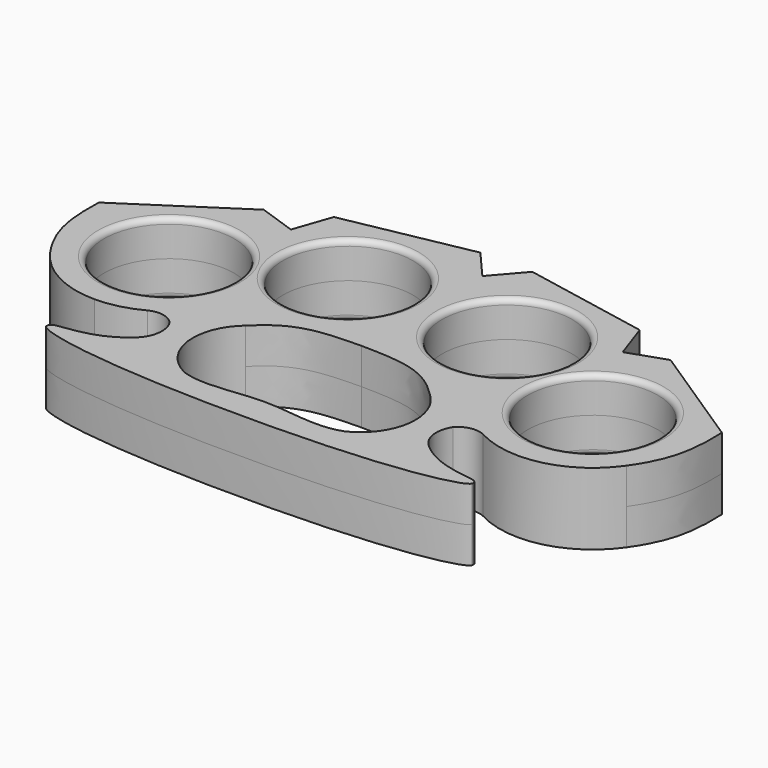
from build123d import *

# Parameters (mm, degrees)
F0_R     = 11.5
F1_DEPTH = 6.35
F2_R     = 3.1
F3_DEPTH = 2
F4_R     = 3.1
F5_DEPTH = 2
F6_R     = 3.1
F7_DEPTH = 2
F8_R     = 3.1
F9_DEPTH = 2
F10_R    = 1


with BuildPart() as f1:
    # F0 (on Top) → F1 (new body, symmetric)
    with BuildSketch(Plane.XY):
        with BuildLine():
            ThreePointArc((-24.9938476794, -12.252967933), (-24.2965271786, -15.8413624811), (-26.2120266154, -18.9548321248))
            add(Edge.make_bspline(
                [(-37.5956135349, -23.5576098881), (-37.8488649141, -21.7842883746), (-31.7119637516, -23.6130767682), (-26.2120266154, -18.9548321248)],
                knots=[0, 0, 0, 0, 12.2789093282, 12.2789093282, 12.2789093282, 12.2789093282], degree=3))
            add(Edge.make_bspline(
                [(-37.5956135349, -23.5576098881), (-37.5985242843, -23.5668355402), (-37.6013892033, -23.5749561954), (-37.604180558, -23.5821196974)],
                knots=[0, 0, 0, 0, 0.013607479, 0.013607479, 0.013607479, 0.013607479], degree=3))
            add(Edge.make_bspline(
                [(-37.604180558, -23.5821196974), (-37.6193024158, -23.6346104291), (-37.6149850147, -23.6902645556), (-37.5907335097, -23.7487180375)],
                knots=[2.3017468291, 2.3017468291, 2.3017468291, 2.3017468291, 3.8056657609, 3.8056657609, 3.8056657609, 3.8056657609], degree=3))
            add(Edge.make_bspline(
                [(-37.5907335097, -23.7487180375), (-37.5855882281, -23.7592614047), (-37.5800064136, -23.7709112106), (-37.5739642035, -23.7837946611)],
                knots=[0.2142761652, 0.2142761652, 0.2142761652, 0.2142761652, 0.2272184963, 0.2272184963, 0.2272184963, 0.2272184963], degree=3))
            add(Edge.make_bspline(
                [(-37.5739642035, -23.7837946611), (-36.8560990883, -25.1125540323), (-26.1640608794, -27.799216335), (0, -27.799216335)],
                knots=[4.1036845268, 4.1036845268, 4.1036845268, 4.1036845268, 37.6619072636, 37.6619072636, 37.6619072636, 37.6619072636], degree=3))
            add(Edge.make_bspline(
                [(37.5739642035, -23.7837946611), (36.8560990883, -25.1125540323), (26.1640608794, -27.799216335), (0, -27.799216335)],
                knots=[4.1036845268, 4.1036845268, 4.1036845268, 4.1036845268, 37.6619072636, 37.6619072636, 37.6619072636, 37.6619072636], degree=3))
            add(Edge.make_bspline(
                [(37.5907335097, -23.7487180375), (37.5855882281, -23.7592614047), (37.5800064136, -23.7709112106), (37.5739642035, -23.7837946611)],
                knots=[0.2142761652, 0.2142761652, 0.2142761652, 0.2142761652, 0.2272184963, 0.2272184963, 0.2272184963, 0.2272184963], degree=3))
            add(Edge.make_bspline(
                [(37.604180558, -23.5821196974), (37.6193024158, -23.6346104291), (37.6149850147, -23.6902645556), (37.5907335097, -23.7487180375)],
                knots=[2.3017468291, 2.3017468291, 2.3017468291, 2.3017468291, 3.8056657609, 3.8056657609, 3.8056657609, 3.8056657609], degree=3))
            add(Edge.make_bspline(
                [(37.5956135349, -23.5576098881), (37.5985242843, -23.5668355402), (37.6013892033, -23.5749561954), (37.604180558, -23.5821196974)],
                knots=[0, 0, 0, 0, 0.013607479, 0.013607479, 0.013607479, 0.013607479], degree=3))
            add(Edge.make_bspline(
                [(37.5956135349, -23.5576098881), (37.8488649141, -21.7842883746), (31.7119637516, -23.6130767682), (26.2120266154, -18.9548321248)],
                knots=[0, 0, 0, 0, 12.2789093282, 12.2789093282, 12.2789093282, 12.2789093282], degree=3))
            ThreePointArc((26.2120266154, -18.9548321248), (24.2965271786, -15.8413624811), (24.9938476794, -12.252967933))
            ThreePointArc((24.9938476794, -12.252967933), (27.1529689875, -11.0084090119), (29.6216134969, -11.3497680865))
            ThreePointArc((29.6216134969, -11.3497680865), (33.3893640975, -12.811198256), (37.3999174489, -13.3083748282))
            ThreePointArc((37.3999174489, -13.3083748282), (45.0105046777, -11.4387038419), (50.8883973713, -6.2553569457))
            add(Edge.make_bspline(
                [(54.9887083471, 9.6202213317), (55.2088841796, 3.2125096768), (54.6198897064, -0.9104488418), (50.8883973713, -6.2553569457)],
                knots=[0, 0, 0, 0, 16.3965403589, 16.3965403589, 16.3965403589, 16.3965403589], degree=3))
            Line((54.9887083471, 9.6202213317), (35.9008214191, 22.1416008538))
            Line((35.9008214191, 22.1416008538), (29.2855482548, 19.8528979542))
            Line((29.2855482548, 19.8528979542), (26.9968453553, 26.4681711185))
            Line((26.9968453553, 26.4681711185), (4.5846431634, 30.7904847667))
            Line((4.5846431634, 30.7904847667), (0, 25.5007733319))
            Line((0, 25.5007733319), (-4.5846431634, 30.7904847667))
            Line((-4.5846431634, 30.7904847667), (-26.9968453553, 26.4681711185))
            Line((-26.9968453553, 26.4681711185), (-29.2855482548, 19.8528979542))
            Line((-29.2855482548, 19.8528979542), (-35.9008214191, 22.1416008538))
            Line((-35.9008214191, 22.1416008538), (-54.9887083471, 9.6202213317))
            add(Edge.make_bspline(
                [(-54.9887083471, 9.6202213317), (-55.2088841796, 3.2125096768), (-54.6198897064, -0.9104488418), (-50.8883973713, -6.2553569457)],
                knots=[0, 0, 0, 0, 16.3965403589, 16.3965403589, 16.3965403589, 16.3965403589], degree=3))
            ThreePointArc((-50.8883973713, -6.2553569457), (-45.0105046777, -11.4387038419), (-37.3999174489, -13.3083748282))
            ThreePointArc((-37.3999174489, -13.3083748282), (-33.3893640975, -12.811198256), (-29.6216134969, -11.3497680865))
            ThreePointArc((-29.6216134969, -11.3497680865), (-27.1529689875, -11.0084090119), (-24.9938476794, -12.252967933))
        make_face()
        with BuildLine():
            add(Edge.make_bspline(
                [(-14.1711380572, -22.555766633), (-9.7913024947, -24.1548437625), (-4.7237126857, -22.555766633), (0, -22.555766633)],
                knots=[0, 0, 0, 0, 14.1711380572, 14.1711380572, 14.1711380572, 14.1711380572], degree=3))
            ThreePointArc((-14.1711380572, -22.555766633), (-19.5520296192, -15.0616277651), (-16.2557908636, -6.4447303281))
            add(Edge.make_bspline(
                [(-16.2557908636, -6.4447303281), (-11.3795083016, -1.4536400558), (-7.1680517867, -1.3082248624), (0, -1.168137067)],
                knots=[0, 0, 0, 0, 17.0907335432, 17.0907335432, 17.0907335432, 17.0907335432], degree=3))
            add(Edge.make_bspline(
                [(16.2557908636, -6.4447303281), (11.3795083016, -1.4536400558), (7.1680517867, -1.3082248624), (0, -1.168137067)],
                knots=[0, 0, 0, 0, 17.0907335432, 17.0907335432, 17.0907335432, 17.0907335432], degree=3))
            ThreePointArc((16.2557908636, -6.4447303281), (19.5520296192, -15.0616277651), (14.1711380572, -22.555766633))
            add(Edge.make_bspline(
                [(14.1711380572, -22.555766633), (9.7913024947, -24.1548437625), (4.7237126857, -22.555766633), (0, -22.555766633)],
                knots=[0, 0, 0, 0, 14.1711380572, 14.1711380572, 14.1711380572, 14.1711380572], degree=3))
        make_face(mode=Mode.SUBTRACT)
        with Locations((-37.3999174489, 3.1160945073)):
            Circle(F0_R, mode=Mode.SUBTRACT)
        with Locations((-14.0518627735, 13.3925907013)):
            Circle(F0_R, mode=Mode.SUBTRACT)
        with Locations((14.0518627735, 13.3925907013)):
            Circle(F0_R, mode=Mode.SUBTRACT)
        with Locations((37.3999174489, 3.1160945073)):
            Circle(F0_R, mode=Mode.SUBTRACT)
    extrude(amount=F1_DEPTH, both=True)

    # F2 (on face) → F3 (cut)
    with BuildSketch(Plane(origin=(20.9557097678, 31.9453793281, 0), x_dir=(-0.8361492943, 0.5485019212, 0), z_dir=(0.5485019212, 0.8361492943, 0))):
        with Locations((-34.9949788214, 0)):
            Circle(F2_R)
        with Locations((-23.5808168667, 0)):
            Circle(F2_R)
    extrude(amount=-F3_DEPTH, mode=Mode.SUBTRACT)

    # F4 (on face) → F5 (cut)
    with BuildSketch(Plane(origin=(5.8895758556, 30.5388214836, 0), x_dir=(-0.9819065804, 0.1893659613, 0), z_dir=(0.1893659613, 0.9819065804, 0))):
        with Locations((-15.789912463, 0)):
            Circle(F4_R)
        with Locations((-4.3773185163, 0)):
            Circle(F4_R)
    extrude(amount=-F5_DEPTH, mode=Mode.SUBTRACT)

    # F6 (on face) → F7 (cut)
    with BuildSketch(Plane(origin=(-5.8895758556, 30.5388214836, 0), x_dir=(-0.9819065804, -0.1893659613, 0), z_dir=(-0.1893659613, 0.9819065804, 0))):
        with Locations((4.3773185163, 0)):
            Circle(F6_R)
        with Locations((15.789912463, 0)):
            Circle(F6_R)
    extrude(amount=-F7_DEPTH, mode=Mode.SUBTRACT)

    # F8 (on face) → F9 (cut)
    with BuildSketch(Plane(origin=(-20.9557097678, 31.9453793281, 0), x_dir=(-0.8361492943, -0.5485019212, 0), z_dir=(-0.5485019212, 0.8361492943, 0))):
        with Locations((23.5808168667, 0)):
            Circle(F8_R)
        with Locations((34.9949788214, 0)):
            Circle(F8_R)
    extrude(amount=-F9_DEPTH, mode=Mode.SUBTRACT)

    # F10
    f10_edges = [f1.edges().sort_by_distance(p)[0] for p in [
        (2.551863, 13.392591, 6.35),
        (25.899917, 3.116095, 6.35),
        (-25.551863, 13.392591, 6.35),
        (-48.899917, 3.116095, 6.35),
        (25.899917, 3.116095, -6.35),
        (2.551863, 13.392591, -6.35),
        (-25.551863, 13.392591, -6.35),
        (-48.899917, 3.116095, -6.35),
    ]]
    fillet(f10_edges, radius=F10_R)


solid = f1.part
